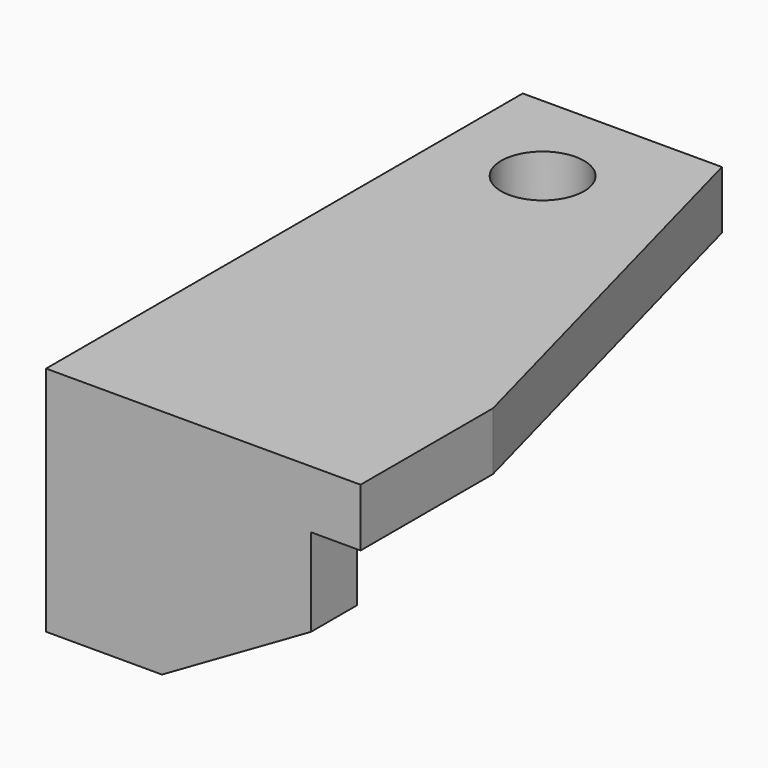
from build123d import *

# Parameters (mm, degrees)
F1_DEPTH = 11.1125
F0_W     = 11.1125
F0_H     = 11.1125
F2_DEPTH = 60.325
F0_H_2   = 33.3375
F3_DEPTH = 50.8
F5_DEPTH = 25.4
F4_R     = 7.9375
F7_DEPTH = 25.4
F8_DEPTH = 25.4


with BuildPart() as f1:
    # F0 (on Right) → F1 (new body)
    with BuildSketch(Plane.YZ):
        Polygon((-8.071182, 14.120396), (-60.458682, 14.120396), (-60.458682, -19.217104), align=None)
    extrude(amount=F1_DEPTH)

    # F0 (on Right) → F2 (join)
    with BuildSketch(Plane.YZ):
        Polygon((42.728818, 25.232896), (-60.458682, 25.232896), (-60.458682, 14.120396), (-8.071182, 14.120396), (42.728818, 14.120396), align=None)
        with Locations((-66.014932, 19.676646)):
            Rectangle(F0_W, F0_H)
    extrude(amount=F2_DEPTH)

    # F0 (on Right) → F3 (join)
    with BuildSketch(Plane.YZ):
        with Locations((-66.014932, -2.548354)):
            Rectangle(F0_W, F0_H_2)
    extrude(amount=F3_DEPTH)

    # F4 (on face) → F5 (cut)
    with BuildSketch(Plane(origin=(0, 0, 14.120396), x_dir=(1, 0, 0), z_dir=(0, 0, -1))):
        Polygon((60.325, -42.728818), (60.325, 39.821182), (38.205794, -42.728818), align=None)
    extrude(amount=-F5_DEPTH, mode=Mode.SUBTRACT)

    # F4 (on face) → F7 (cut)
    with BuildSketch(Plane(origin=(0, 0, 14.120396), x_dir=(1, 0, 0), z_dir=(0, 0, -1))):
        with Locations((19.05, -23.678818)):
            Circle(F4_R)
    extrude(amount=-F7_DEPTH, mode=Mode.SUBTRACT)

    # F6 (on face) → F8 (cut)
    with BuildSketch(Plane(origin=(0, -60.458682, 0), x_dir=(-1, 0, 0), z_dir=(0, 1, 0))):
        Polygon((-50.8, -19.217104), (-22.225, -19.217104), (-50.8, -2.71932), align=None)
    extrude(amount=-F8_DEPTH, mode=Mode.SUBTRACT)


with BuildPart() as f9_1:
    # F9: copy of F1
    add(f1.part)


solid = f1.part
